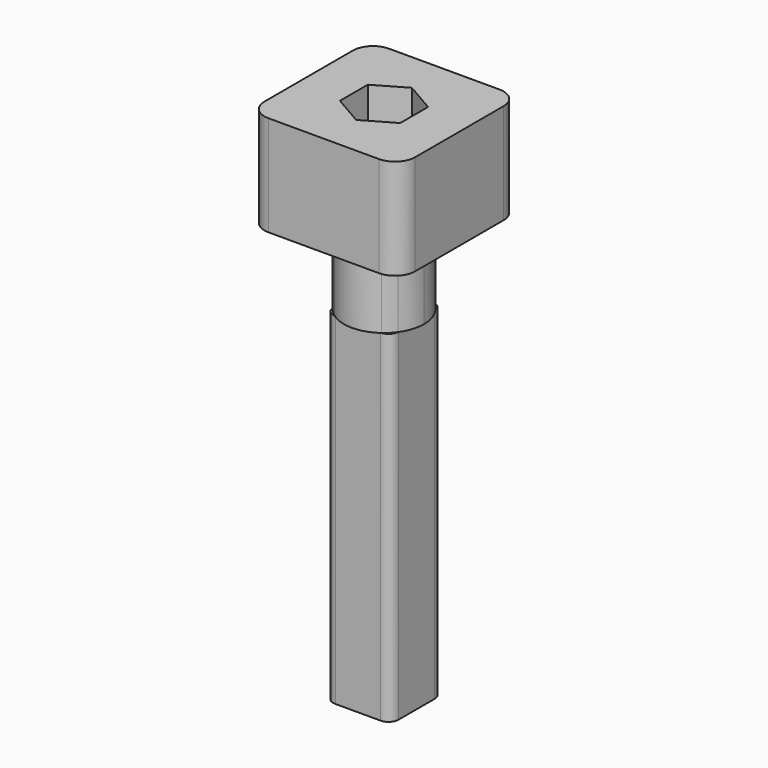
from build123d import *

# Parameters (mm, degrees)
F0_W      = 6.5
F0_H      = 6.5
F1_DEPTH  = 34
F2_R      = 1
F4_DEPTH  = 8
F5_W      = 15
F5_H      = 15
F5_R      = 4
F6_DEPTH  = 10
F8_DEPTH  = 4
F10_D     = 4
F10_DEPTH = 25
F10_TIP   = 1.2017212381
F11_R     = 2


with BuildPart() as f1:
    # F0 (on Top) → F1 (new body)
    with BuildSketch(Plane.XY):
        Rectangle(F0_W, F0_H)
    extrude(amount=F1_DEPTH)

    # F2
    f2_edges = [f1.edges().sort_by_distance(p)[0] for p in [
        (-3.25, 3.25, 17),
        (3.25, 3.25, 17),
        (3.25, -3.25, 17),
        (-3.25, -3.25, 17),
    ]]
    fillet(f2_edges, radius=F2_R)

    # F3 (on face) → F4 (join)
    with BuildSketch(Plane.XY.offset(34)):
        with BuildLine():
            ThreePointArc((3.25, 2.25), (3.249048632, 2.2936099868), (3.2461963381, 2.3371369952))
            ThreePointArc((3.2461963381, 2.3371369952), (2.8284271247, 2.8284271247), (2.3371369952, 3.2461963381))
            ThreePointArc((2.3371369952, 3.2461963381), (2.2936099868, 3.249048632), (2.25, 3.25))
            Line((2.25, 3.25), (-2.25, 3.25))
            ThreePointArc((-2.25, 3.25), (-2.2936099868, 3.249048632), (-2.3371369952, 3.2461963381))
            ThreePointArc((-2.3371369952, 3.2461963381), (-2.8284271247, 2.8284271247), (-3.2461963381, 2.3371369952))
            ThreePointArc((-3.2461963381, 2.3371369952), (-3.249048632, 2.2936099868), (-3.25, 2.25))
            Line((-3.25, 2.25), (-3.25, -2.25))
            ThreePointArc((-3.25, -2.25), (-3.249048632, -2.2936099868), (-3.2461963381, -2.3371369952))
            ThreePointArc((-3.2461963381, -2.3371369952), (-2.8284271247, -2.8284271247), (-2.3371369952, -3.2461963381))
            ThreePointArc((-2.3371369952, -3.2461963381), (-2.2936099868, -3.249048632), (-2.25, -3.25))
            Line((-2.25, -3.25), (2.25, -3.25))
            ThreePointArc((2.25, -3.25), (2.2936099868, -3.249048632), (2.3371369952, -3.2461963381))
            ThreePointArc((2.3371369952, -3.2461963381), (2.8284271247, -2.8284271247), (3.2461963381, -2.3371369952))
            ThreePointArc((3.2461963381, -2.3371369952), (3.249048632, -2.2936099868), (3.25, -2.25))
            Line((3.25, -2.25), (3.25, 2.25))
        make_face()
        with BuildLine():
            ThreePointArc((3.25, 2.25), (3.249048632, 2.2936099868), (3.2461963381, 2.3371369952))
            ThreePointArc((3.2461963381, 2.3371369952), (2.8284271247, 2.8284271247), (2.3371369952, 3.2461963381))
            ThreePointArc((2.3371369952, 3.2461963381), (2.2936099868, 3.249048632), (2.25, 3.25))
            Line((2.25, 3.25), (-2.25, 3.25))
            ThreePointArc((-2.25, 3.25), (-2.2936099868, 3.249048632), (-2.3371369952, 3.2461963381))
            ThreePointArc((-2.3371369952, 3.2461963381), (-2.8284271247, 2.8284271247), (-3.2461963381, 2.3371369952))
            ThreePointArc((-3.2461963381, 2.3371369952), (-3.249048632, 2.2936099868), (-3.25, 2.25))
            Line((-3.25, 2.25), (-3.25, -2.25))
            ThreePointArc((-3.25, -2.25), (-3.249048632, -2.2936099868), (-3.2461963381, -2.3371369952))
            ThreePointArc((-3.2461963381, -2.3371369952), (-2.8284271247, -2.8284271247), (-2.3371369952, -3.2461963381))
            ThreePointArc((-2.3371369952, -3.2461963381), (-2.2936099868, -3.249048632), (-2.25, -3.25))
            Line((-2.25, -3.25), (2.25, -3.25))
            ThreePointArc((2.25, -3.25), (2.2936099868, -3.249048632), (2.3371369952, -3.2461963381))
            ThreePointArc((2.3371369952, -3.2461963381), (2.8284271247, -2.8284271247), (3.2461963381, -2.3371369952))
            ThreePointArc((3.2461963381, -2.3371369952), (3.249048632, -2.2936099868), (3.25, -2.25))
            Line((3.25, -2.25), (3.25, 2.25))
        make_face()
        with BuildLine():
            ThreePointArc((3.2461963381, -2.3371369952), (3.8068875313, -1.2278466206), (4, 0))
            ThreePointArc((4, 0), (3.8068875313, 1.2278466206), (3.2461963381, 2.3371369952))
            ThreePointArc((3.2461963381, 2.3371369952), (3.249048632, 2.2936099868), (3.25, 2.25))
            Line((3.25, 2.25), (3.25, -2.25))
            ThreePointArc((3.25, -2.25), (3.249048632, -2.2936099868), (3.2461963381, -2.3371369952))
        make_face()
        with BuildLine():
            ThreePointArc((2.25, 3.25), (2.2936099868, 3.249048632), (2.3371369952, 3.2461963381))
            ThreePointArc((2.3371369952, 3.2461963381), (0, 4), (-2.3371369952, 3.2461963381))
            ThreePointArc((-2.3371369952, 3.2461963381), (-2.2936099868, 3.249048632), (-2.25, 3.25))
            Line((-2.25, 3.25), (2.25, 3.25))
        make_face()
        with BuildLine():
            ThreePointArc((-2.3371369952, -3.2461963381), (0, -4), (2.3371369952, -3.2461963381))
            ThreePointArc((2.3371369952, -3.2461963381), (2.2936099868, -3.249048632), (2.25, -3.25))
            Line((2.25, -3.25), (-2.25, -3.25))
            ThreePointArc((-2.25, -3.25), (-2.2936099868, -3.249048632), (-2.3371369952, -3.2461963381))
        make_face()
        with BuildLine():
            ThreePointArc((-3.25, 2.25), (-3.249048632, 2.2936099868), (-3.2461963381, 2.3371369952))
            ThreePointArc((-3.2461963381, 2.3371369952), (-4, 0), (-3.2461963381, -2.3371369952))
            ThreePointArc((-3.2461963381, -2.3371369952), (-3.249048632, -2.2936099868), (-3.25, -2.25))
            Line((-3.25, -2.25), (-3.25, 2.25))
        make_face()
    extrude(amount=F4_DEPTH)

    # F5 (on face) → F6 (join)
    with BuildSketch(Plane.XY.offset(42)):
        Rectangle(F5_W, F5_H)
        Circle(F5_R, mode=Mode.SUBTRACT)
        Circle(F5_R)
    extrude(amount=F6_DEPTH)

    # F7 (on face) → F8 (cut)
    with BuildSketch(Plane.XY.offset(52)):
        Polygon((-3, 1.7320508076), (-3, -1.7320508076), (0, -3.4641016151), (3, -1.7320508076), (3, 1.7320508076), (0, 3.4641016151), align=None)
    extrude(amount=-F8_DEPTH, mode=Mode.SUBTRACT)

    # F10
    with Locations(Plane.XY.offset(48)):
        with Locations((0, 0)):
            Hole(F10_D / 2, depth=F10_DEPTH)
            with Locations((0, 0, -(F10_DEPTH + F10_TIP / 2))):  # 118° drill point
                Cone(0, F10_D / 2, F10_TIP, mode=Mode.SUBTRACT)

    # F11
    f11_edges = [f1.edges().sort_by_distance(p)[0] for p in [
        (7.5, 7.5, 47),
        (-7.5, 7.5, 47),
        (-7.5, -7.5, 47),
        (7.5, -7.5, 47),
    ]]
    fillet(f11_edges, radius=F11_R)


solid = f1.part
